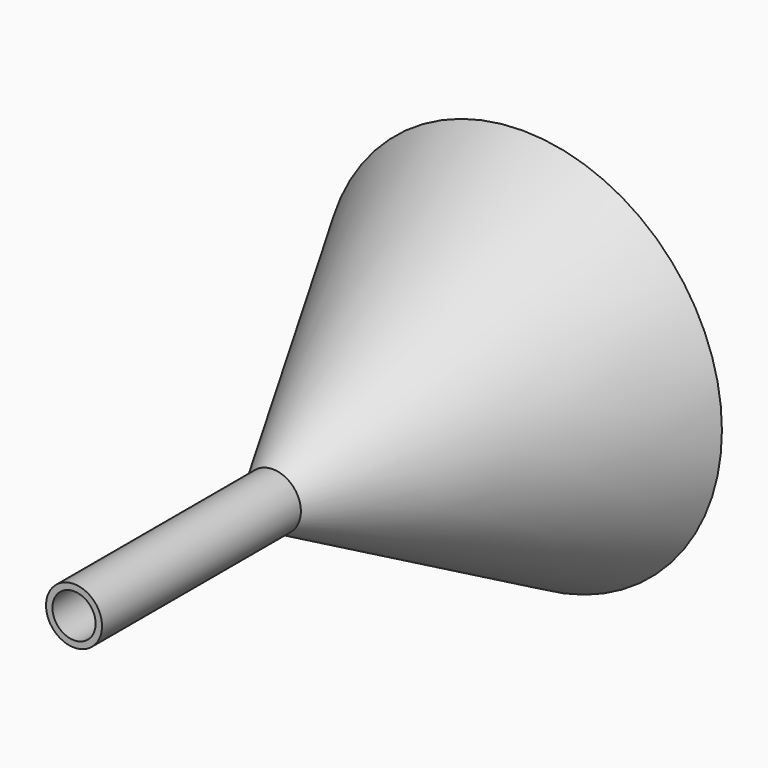
from build123d import *

# Parameters (mm, degrees)
F2_R     = 3.8487
F3_DEPTH = 50.8


with BuildPart() as f1:
    # F0 (on Top) → F1 (revolve)
    with BuildSketch(Plane.XY):
        Polygon((35.50566, 55.65488), (25.920112, 55.65488), (0, 0), (0, -44.308718), (4.988399, -44.308718), (4.988399, 0), align=None)
    revolve(axis=Axis((0, -22.154359, 0), (0, 1, 0)))

    # F2 (on face) → F3 (cut)
    with BuildSketch(Plane.XZ.offset(44.308718)):
        Circle(F2_R)
    extrude(amount=-F3_DEPTH, mode=Mode.SUBTRACT)


solid = f1.part
